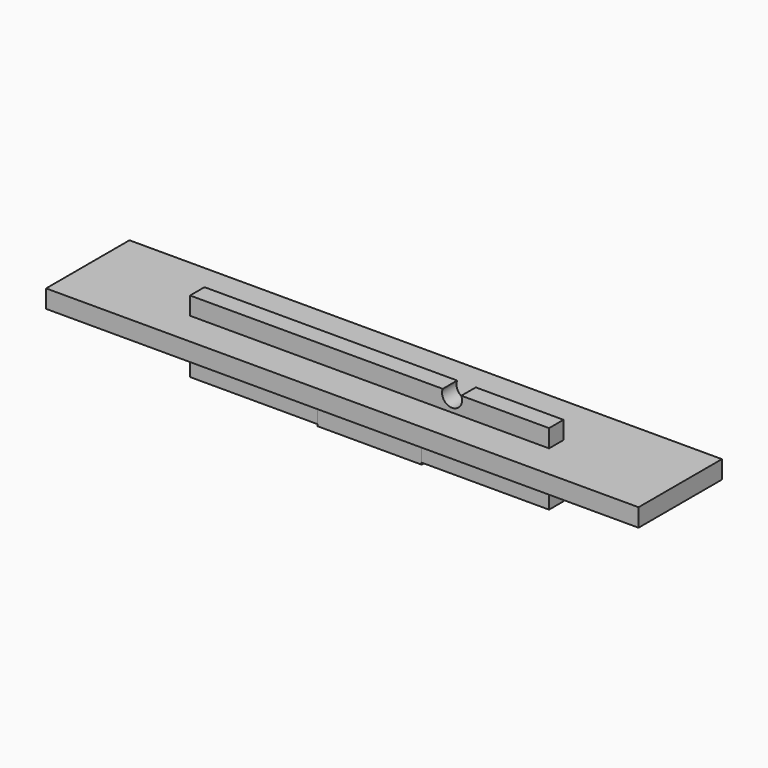
from build123d import *

# Parameters (mm, degrees)
F0_W     = 350
F0_H     = 70
F1_DEPTH = 17.6
F2_R     = 9.75
F3_DEPTH = 17.6
F4_W     = 101.6
F4_H     = 50.8
F5_DEPTH = 17.6
F6_W     = 577.6
F6_H     = 101.6
F7_DEPTH = 17.6


with BuildPart() as f1:
    # F0 (on Front) → F1 (new body)
    with BuildSketch(Plane.XZ):
        Rectangle(F0_W, F0_H)
    extrude(amount=F1_DEPTH)

    # F2 (on face) → F3 (cut)
    with BuildSketch(Plane.XZ.offset(17.6)):
        with Locations((80.412671, 31.38715)):
            Circle(F2_R)
    extrude(amount=-F3_DEPTH, mode=Mode.SUBTRACT)


with BuildPart() as f5:
    # F4 (on Front) → F5 (new body)
    with BuildSketch(Plane.XZ):
        with Locations((0, -11.37708)):
            Rectangle(F4_W, F4_H)
    extrude(amount=F5_DEPTH)


with BuildPart() as f7:
    # F6 (on Top) → F7 (new body)
    with BuildSketch(Plane.XY):
        Rectangle(F6_W, F6_H)
    extrude(amount=F7_DEPTH)


solid = Compound([f1.part, f5.part, f7.part])
